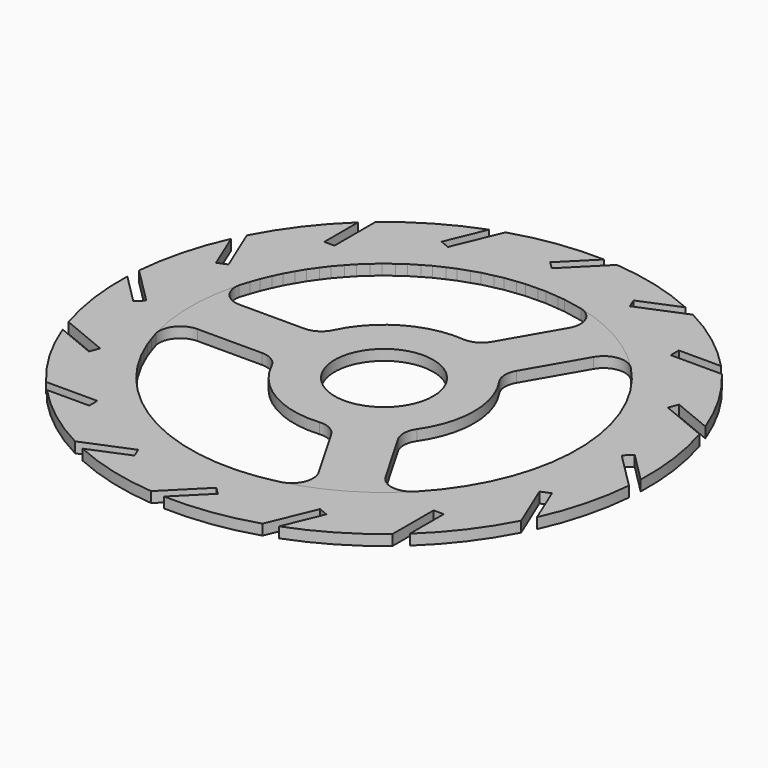
from build123d import *

# Parameters (mm, degrees)
F1_R     = 14
F2_DEPTH = 3
F3_DEPTH = 3


with BuildPart() as f2:
    # F1 (on Top) → F2 (new body)
    with BuildSketch(Plane.XY):
        with BuildLine():
            ThreePointArc((74.9571342609, -2.5353546871), (74.9892827995, -1.2678585155), (75, 0))
            ThreePointArc((75, 0), (74.1170626853, 11.4743635513), (71.4890394958, 22.6785632696))
            Line((71.4890394958, 22.6785632696), (58.0252640493, 28.2554416602))
            Line((58.0252640493, 28.2554416602), (59.1350460032, 30.9346923045))
            Line((59.1350460032, 30.9346923045), (70.2216003933, 26.3424911161))
            ThreePointArc((70.2216003933, 26.3424911161), (64.7337139762, 37.8754046162), (57.3685499559, 48.3099314422))
            Line((57.3685499559, 48.3099314422), (42.7954644262, 48.3099314422))
            Line((42.7954644262, 48.3099314422), (42.7954644262, 51.2099314422))
            Line((42.7954644262, 51.2099314422), (54.7954644262, 51.2099314422))
            ThreePointArc((54.7954644262, 51.2099314422), (45.3118635653, 59.7648309647), (34.5142187325, 66.5865504834))
            Line((34.5142187325, 66.5865504834), (21.050443286, 61.0096720928))
            Line((21.050443286, 61.0096720928), (19.9406613322, 63.6889227371))
            Line((19.9406613322, 63.6889227371), (31.0272157223, 68.2811239254))
            ThreePointArc((31.0272157223, 68.2811239254), (18.9916926796, 72.5556035683), (6.4054105792, 74.7259708221))
            Line((6.4054105792, 74.7259708221), (-3.8993170217, 64.4212432212))
            Line((-3.8993170217, 64.4212432212), (-5.9499266871, 66.4718528867))
            Line((-5.9499266871, 66.4718528867), (2.5353546871, 74.9571342609))
            ThreePointArc((2.5353546871, 74.9571342609), (-10.2197912564, 74.3004432468), (-22.6785632696, 71.4890394958))
            Line((-22.6785632696, 71.4890394958), (-28.2554416602, 58.0252640493))
            Line((-28.2554416602, 58.0252640493), (-30.9346923045, 59.1350460032))
            Line((-30.9346923045, 59.1350460032), (-26.3424911161, 70.2216003933))
            ThreePointArc((-26.3424911161, 70.2216003933), (-37.8754046162, 64.7337139762), (-48.3099314422, 57.3685499559))
            Line((-48.3099314422, 57.3685499559), (-48.3099314422, 42.7954644262))
            Line((-48.3099314422, 42.7954644262), (-51.2099314422, 42.7954644262))
            Line((-51.2099314422, 42.7954644262), (-51.2099314422, 54.7954644262))
            ThreePointArc((-51.2099314422, 54.7954644262), (-59.7648309647, 45.3118635653), (-66.5865504834, 34.5142187325))
            Line((-66.5865504834, 34.5142187325), (-61.0096720928, 21.050443286))
            Line((-61.0096720928, 21.050443286), (-63.6889227371, 19.9406613322))
            Line((-63.6889227371, 19.9406613322), (-68.2811239254, 31.0272157223))
            ThreePointArc((-68.2811239254, 31.0272157223), (-72.5556035683, 18.9916926796), (-74.7259708221, 6.4054105792))
            Line((-74.7259708221, 6.4054105792), (-64.4212432212, -3.8993170217))
            Line((-64.4212432212, -3.8993170217), (-66.4718528867, -5.9499266871))
            Line((-66.4718528867, -5.9499266871), (-74.9571342609, 2.5353546871))
            ThreePointArc((-74.9571342609, 2.5353546871), (-74.3004432468, -10.2197912564), (-71.4890394958, -22.6785632696))
            Line((-71.4890394958, -22.6785632696), (-58.0252640493, -28.2554416602))
            Line((-58.0252640493, -28.2554416602), (-59.1350460032, -30.9346923045))
            Line((-59.1350460032, -30.9346923045), (-70.2216003933, -26.3424911161))
            ThreePointArc((-70.2216003933, -26.3424911161), (-64.7337139762, -37.8754046162), (-57.3685499559, -48.3099314422))
            Line((-57.3685499559, -48.3099314422), (-42.7954644262, -48.3099314422))
            Line((-42.7954644262, -48.3099314422), (-42.7954644262, -51.2099314422))
            Line((-42.7954644262, -51.2099314422), (-54.7954644262, -51.2099314422))
            ThreePointArc((-54.7954644262, -51.2099314422), (-45.3118635653, -59.7648309647), (-34.5142187325, -66.5865504834))
            Line((-34.5142187325, -66.5865504834), (-21.050443286, -61.0096720928))
            Line((-21.050443286, -61.0096720928), (-19.9406613322, -63.6889227371))
            Line((-19.9406613322, -63.6889227371), (-31.0272157223, -68.2811239254))
            ThreePointArc((-31.0272157223, -68.2811239254), (-18.9916926796, -72.5556035683), (-6.4054105792, -74.7259708221))
            Line((-6.4054105792, -74.7259708221), (3.8993170217, -64.4212432212))
            Line((3.8993170217, -64.4212432212), (5.9499266871, -66.4718528867))
            Line((5.9499266871, -66.4718528867), (-2.5353546871, -74.9571342609))
            ThreePointArc((-2.5353546871, -74.9571342609), (10.2197912564, -74.3004432468), (22.6785632696, -71.4890394958))
            Line((22.6785632696, -71.4890394958), (28.2554416602, -58.0252640493))
            Line((28.2554416602, -58.0252640493), (30.9346923045, -59.1350460032))
            Line((30.9346923045, -59.1350460032), (26.3424911161, -70.2216003933))
            ThreePointArc((26.3424911161, -70.2216003933), (37.8754046162, -64.7337139762), (48.3099314422, -57.3685499559))
            Line((48.3099314422, -57.3685499559), (48.3099314422, -42.7954644262))
            Line((48.3099314422, -42.7954644262), (51.2099314422, -42.7954644262))
            Line((51.2099314422, -42.7954644262), (51.2099314422, -54.7954644262))
            ThreePointArc((51.2099314422, -54.7954644262), (59.7648309647, -45.3118635653), (66.5865504834, -34.5142187325))
            Line((66.5865504834, -34.5142187325), (61.0096720928, -21.050443286))
            Line((61.0096720928, -21.050443286), (63.6889227371, -19.9406613322))
            Line((63.6889227371, -19.9406613322), (68.2811239254, -31.0272157223))
            ThreePointArc((68.2811239254, -31.0272157223), (72.5556035683, -18.9916926796), (74.7259708221, -6.4054105792))
            Line((74.7259708221, -6.4054105792), (64.4212432212, 3.8993170217))
            Line((64.4212432212, 3.8993170217), (66.4718528867, 5.9499266871))
            Line((66.4718528867, 5.9499266871), (74.9571342609, -2.5353546871))
        make_face()
        with BuildLine():
            ThreePointArc((-52.8423127254, 15.2541792906), (-27.5, 47.6313972081), (13.2106495831, 53.3898748602))
            ThreePointArc((13.2106495831, 53.3898748602), (27.5, 47.6313972081), (39.6316631423, 38.1356955696))
            ThreePointArc((39.6316631423, 38.1356955696), (51.0134368222, 20.5579489149), (55, 0))
            ThreePointArc((55, 0), (51.0134368222, -20.5579489149), (39.6316631423, -38.1356955696))
            ThreePointArc((39.6316631423, -38.1356955696), (27.5, -47.6313972081), (13.2106495831, -53.3898748602))
            ThreePointArc((13.2106495831, -53.3898748602), (-27.5, -47.6313972081), (-52.8423127254, -15.2541792906))
            ThreePointArc((-52.8423127254, -15.2541792906), (-55, 0), (-52.8423127254, 15.2541792906))
        make_face(mode=Mode.SUBTRACT)
        with BuildLine():
            ThreePointArc((39.6316631423, 38.1356955696), (27.5, 47.6313972081), (13.2106495831, 53.3898748602))
            ThreePointArc((13.2106495831, 53.3898748602), (17.3383827673, 49.8739811927), (17.0097779922, 44.461799708))
            Line((17.0097779922, 44.461799708), (7.8177344638, 28.5407132914))
            ThreePointArc((7.8177344638, 28.5407132914), (5.3806522036, 26.2002851538), (2.06985418, 25.5253108897))
            ThreePointArc((2.06985418, 25.5253108897), (-12.8045479454, 22.1781276094), (-23.14049476, 10.9701091429))
            ThreePointArc((-23.14049476, 10.9701091429), (-25.3804386314, 8.4403610796), (-28.6258499844, 7.5))
            Line((-28.6258499844, 7.5), (-47.0099370413, 7.5))
            ThreePointArc((-47.0099370413, 7.5), (-51.8613260844, 9.9215106593), (-52.8423127254, 15.2541792906))
            ThreePointArc((-52.8423127254, 15.2541792906), (-55, 0), (-52.8423127254, -15.2541792906))
            ThreePointArc((-52.8423127254, -15.2541792906), (-51.8613260844, -9.9215106593), (-47.0099370413, -7.5))
            Line((-47.0099370413, -7.5), (-28.6258499844, -7.5))
            ThreePointArc((-28.6258499844, -7.5), (-25.3804386314, -8.4403610796), (-23.14049476, -10.9701091429))
            ThreePointArc((-23.14049476, -10.9701091429), (-12.8045479454, -22.1781276094), (2.06985418, -25.5253108897))
            ThreePointArc((2.06985418, -25.5253108897), (5.3806522036, -26.2002851538), (7.8177344638, -28.5407132914))
            Line((7.8177344638, -28.5407132914), (17.0097779922, -44.461799708))
            ThreePointArc((17.0097779922, -44.461799708), (17.3383827673, -49.8739811927), (13.2106495831, -53.3898748602))
            ThreePointArc((13.2106495831, -53.3898748602), (27.5, -47.6313972081), (39.6316631423, -38.1356955696))
            ThreePointArc((39.6316631423, -38.1356955696), (34.5229433171, -39.9524705334), (30.000159049, -36.961799708))
            Line((30.000159049, -36.961799708), (20.8081155206, -21.0407132914))
            ThreePointArc((20.8081155206, -21.0407132914), (19.9997864278, -17.7599240741), (21.07064058, -14.5552017469))
            ThreePointArc((21.07064058, -14.5552017469), (25.6090958908, 0), (21.07064058, 14.5552017469))
            ThreePointArc((21.07064058, 14.5552017469), (19.9997864278, 17.7599240741), (20.8081155206, 21.0407132914))
            Line((20.8081155206, 21.0407132914), (30.000159049, 36.961799708))
            ThreePointArc((30.000159049, 36.961799708), (34.5229433171, 39.9524705334), (39.6316631423, 38.1356955696))
        make_face()
        Circle(F1_R, mode=Mode.SUBTRACT)
    extrude(amount=F2_DEPTH)


with BuildPart() as f3:
    # F1 (on Top) → F3 (new body)
    with BuildSketch(Plane.XY):
        with BuildLine():
            ThreePointArc((74.9571342609, -2.5353546871), (74.9892827995, -1.2678585155), (75, 0))
            ThreePointArc((75, 0), (74.1170626853, 11.4743635513), (71.4890394958, 22.6785632696))
            Line((71.4890394958, 22.6785632696), (58.0252640493, 28.2554416602))
            Line((58.0252640493, 28.2554416602), (59.1350460032, 30.9346923045))
            Line((59.1350460032, 30.9346923045), (70.2216003933, 26.3424911161))
            ThreePointArc((70.2216003933, 26.3424911161), (64.7337139762, 37.8754046162), (57.3685499559, 48.3099314422))
            Line((57.3685499559, 48.3099314422), (42.7954644262, 48.3099314422))
            Line((42.7954644262, 48.3099314422), (42.7954644262, 51.2099314422))
            Line((42.7954644262, 51.2099314422), (54.7954644262, 51.2099314422))
            ThreePointArc((54.7954644262, 51.2099314422), (45.3118635653, 59.7648309647), (34.5142187325, 66.5865504834))
            Line((34.5142187325, 66.5865504834), (21.050443286, 61.0096720928))
            Line((21.050443286, 61.0096720928), (19.9406613322, 63.6889227371))
            Line((19.9406613322, 63.6889227371), (31.0272157223, 68.2811239254))
            ThreePointArc((31.0272157223, 68.2811239254), (18.9916926796, 72.5556035683), (6.4054105792, 74.7259708221))
            Line((6.4054105792, 74.7259708221), (-3.8993170217, 64.4212432212))
            Line((-3.8993170217, 64.4212432212), (-5.9499266871, 66.4718528867))
            Line((-5.9499266871, 66.4718528867), (2.5353546871, 74.9571342609))
            ThreePointArc((2.5353546871, 74.9571342609), (-10.2197912564, 74.3004432468), (-22.6785632696, 71.4890394958))
            Line((-22.6785632696, 71.4890394958), (-28.2554416602, 58.0252640493))
            Line((-28.2554416602, 58.0252640493), (-30.9346923045, 59.1350460032))
            Line((-30.9346923045, 59.1350460032), (-26.3424911161, 70.2216003933))
            ThreePointArc((-26.3424911161, 70.2216003933), (-37.8754046162, 64.7337139762), (-48.3099314422, 57.3685499559))
            Line((-48.3099314422, 57.3685499559), (-48.3099314422, 42.7954644262))
            Line((-48.3099314422, 42.7954644262), (-51.2099314422, 42.7954644262))
            Line((-51.2099314422, 42.7954644262), (-51.2099314422, 54.7954644262))
            ThreePointArc((-51.2099314422, 54.7954644262), (-59.7648309647, 45.3118635653), (-66.5865504834, 34.5142187325))
            Line((-66.5865504834, 34.5142187325), (-61.0096720928, 21.050443286))
            Line((-61.0096720928, 21.050443286), (-63.6889227371, 19.9406613322))
            Line((-63.6889227371, 19.9406613322), (-68.2811239254, 31.0272157223))
            ThreePointArc((-68.2811239254, 31.0272157223), (-72.5556035683, 18.9916926796), (-74.7259708221, 6.4054105792))
            Line((-74.7259708221, 6.4054105792), (-64.4212432212, -3.8993170217))
            Line((-64.4212432212, -3.8993170217), (-66.4718528867, -5.9499266871))
            Line((-66.4718528867, -5.9499266871), (-74.9571342609, 2.5353546871))
            ThreePointArc((-74.9571342609, 2.5353546871), (-74.3004432468, -10.2197912564), (-71.4890394958, -22.6785632696))
            Line((-71.4890394958, -22.6785632696), (-58.0252640493, -28.2554416602))
            Line((-58.0252640493, -28.2554416602), (-59.1350460032, -30.9346923045))
            Line((-59.1350460032, -30.9346923045), (-70.2216003933, -26.3424911161))
            ThreePointArc((-70.2216003933, -26.3424911161), (-64.7337139762, -37.8754046162), (-57.3685499559, -48.3099314422))
            Line((-57.3685499559, -48.3099314422), (-42.7954644262, -48.3099314422))
            Line((-42.7954644262, -48.3099314422), (-42.7954644262, -51.2099314422))
            Line((-42.7954644262, -51.2099314422), (-54.7954644262, -51.2099314422))
            ThreePointArc((-54.7954644262, -51.2099314422), (-45.3118635653, -59.7648309647), (-34.5142187325, -66.5865504834))
            Line((-34.5142187325, -66.5865504834), (-21.050443286, -61.0096720928))
            Line((-21.050443286, -61.0096720928), (-19.9406613322, -63.6889227371))
            Line((-19.9406613322, -63.6889227371), (-31.0272157223, -68.2811239254))
            ThreePointArc((-31.0272157223, -68.2811239254), (-18.9916926796, -72.5556035683), (-6.4054105792, -74.7259708221))
            Line((-6.4054105792, -74.7259708221), (3.8993170217, -64.4212432212))
            Line((3.8993170217, -64.4212432212), (5.9499266871, -66.4718528867))
            Line((5.9499266871, -66.4718528867), (-2.5353546871, -74.9571342609))
            ThreePointArc((-2.5353546871, -74.9571342609), (10.2197912564, -74.3004432468), (22.6785632696, -71.4890394958))
            Line((22.6785632696, -71.4890394958), (28.2554416602, -58.0252640493))
            Line((28.2554416602, -58.0252640493), (30.9346923045, -59.1350460032))
            Line((30.9346923045, -59.1350460032), (26.3424911161, -70.2216003933))
            ThreePointArc((26.3424911161, -70.2216003933), (37.8754046162, -64.7337139762), (48.3099314422, -57.3685499559))
            Line((48.3099314422, -57.3685499559), (48.3099314422, -42.7954644262))
            Line((48.3099314422, -42.7954644262), (51.2099314422, -42.7954644262))
            Line((51.2099314422, -42.7954644262), (51.2099314422, -54.7954644262))
            ThreePointArc((51.2099314422, -54.7954644262), (59.7648309647, -45.3118635653), (66.5865504834, -34.5142187325))
            Line((66.5865504834, -34.5142187325), (61.0096720928, -21.050443286))
            Line((61.0096720928, -21.050443286), (63.6889227371, -19.9406613322))
            Line((63.6889227371, -19.9406613322), (68.2811239254, -31.0272157223))
            ThreePointArc((68.2811239254, -31.0272157223), (72.5556035683, -18.9916926796), (74.7259708221, -6.4054105792))
            Line((74.7259708221, -6.4054105792), (64.4212432212, 3.8993170217))
            Line((64.4212432212, 3.8993170217), (66.4718528867, 5.9499266871))
            Line((66.4718528867, 5.9499266871), (74.9571342609, -2.5353546871))
        make_face()
        with BuildLine():
            ThreePointArc((-52.8423127254, 15.2541792906), (-27.5, 47.6313972081), (13.2106495831, 53.3898748602))
            ThreePointArc((13.2106495831, 53.3898748602), (27.5, 47.6313972081), (39.6316631423, 38.1356955696))
            ThreePointArc((39.6316631423, 38.1356955696), (51.0134368222, 20.5579489149), (55, 0))
            ThreePointArc((55, 0), (51.0134368222, -20.5579489149), (39.6316631423, -38.1356955696))
            ThreePointArc((39.6316631423, -38.1356955696), (27.5, -47.6313972081), (13.2106495831, -53.3898748602))
            ThreePointArc((13.2106495831, -53.3898748602), (-27.5, -47.6313972081), (-52.8423127254, -15.2541792906))
            ThreePointArc((-52.8423127254, -15.2541792906), (-55, 0), (-52.8423127254, 15.2541792906))
        make_face(mode=Mode.SUBTRACT)
    extrude(amount=F3_DEPTH)


solid = Compound([f2.part, f3.part])
